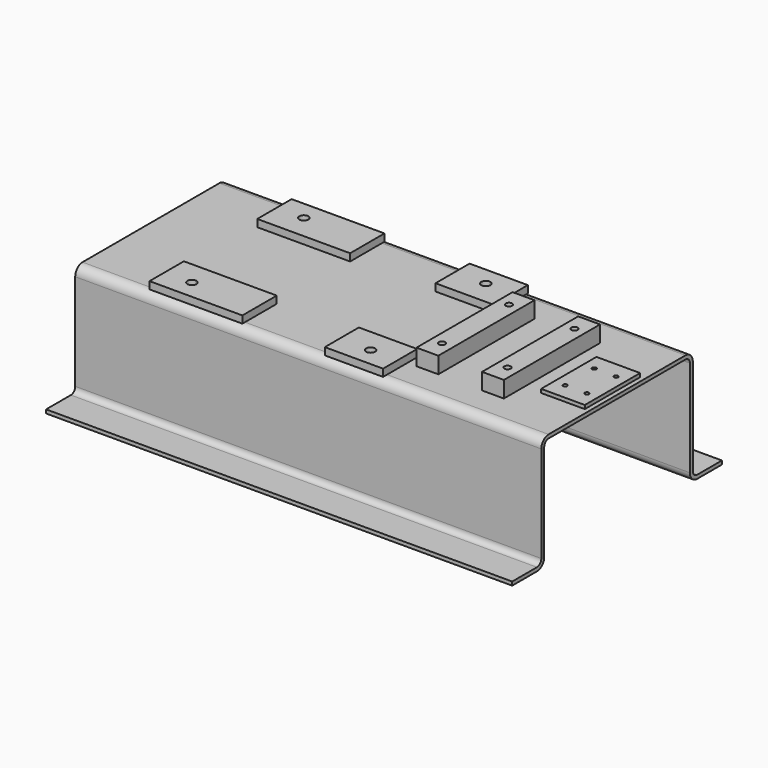
from build123d import *

# Parameters (mm, degrees)
F1_DEPTH = 812.8
F2_W     = 323.85
F2_H     = 149.815533
F2_R     = 15.875
F2_W_2   = 203.2
F2_H_2   = 148.416346
F3_DEPTH = 25.4
F4_W     = 76.2
F4_H     = 419.1
F4_R     = 11.176
F5_DEPTH = 57.15
F6_W     = 152.4
F6_H     = 241.3
F6_R     = 7.14375
F7_DEPTH = 12.7


with BuildPart() as f1:
    # F0 (on Right) → F1 (new body, symmetric)
    with BuildSketch(Plane.YZ):
        with BuildLine():
            ThreePointArc((317.5, 31.75), (326.79936, 9.29936), (349.25, 0))
            Line((349.25, 0), (457.2, 0))
            Line((457.2, 0), (457.2, 12.7))
            Line((457.2, 12.7), (349.25, 12.7))
            ThreePointArc((349.25, 12.7), (335.779616, 18.279616), (330.2, 31.75))
            Line((330.2, 31.75), (330.2, 368.3))
            ThreePointArc((330.2, 368.3), (320.90064, 390.75064), (298.45, 400.05))
            Line((298.45, 400.05), (0, 400.05))
            Line((0, 400.05), (-298.45, 400.05))
            ThreePointArc((-298.45, 400.05), (-320.90064, 390.75064), (-330.2, 368.3))
            Line((-330.2, 368.3), (-330.2, 31.75))
            ThreePointArc((-330.2, 31.75), (-335.779616, 18.279616), (-349.25, 12.7))
            Line((-349.25, 12.7), (-457.2, 12.7))
            Line((-457.2, 12.7), (-457.2, 0))
            Line((-457.2, 0), (-349.25, 0))
            ThreePointArc((-349.25, 0), (-326.79936, 9.29936), (-317.5, 31.75))
            Line((-317.5, 31.75), (-317.5, 368.3))
            ThreePointArc((-317.5, 368.3), (-311.920384, 381.770384), (-298.45, 387.35))
            Line((-298.45, 387.35), (0, 387.35))
            Line((0, 387.35), (298.45, 387.35))
            ThreePointArc((298.45, 387.35), (311.920384, 381.770384), (317.5, 368.3))
            Line((317.5, 368.3), (317.5, 31.75))
        make_face()
    extrude(amount=F1_DEPTH, both=True)

    # F2 (on face) → F3 (join)
    with BuildSketch(Plane.XY.offset(400.05)):
        with Locations((-408.051, -234.850373)):
            Rectangle(F2_W, F2_H)
        with Locations((-474.726, -243.856796)):
            Circle(F2_R, mode=Mode.SUBTRACT)
        with Locations((147.574, -241.293997)):
            Rectangle(F2_W_2, F2_H_2)
        with Locations((154.178, -251.150241)):
            Circle(F2_R, mode=Mode.SUBTRACT)
        with Locations((-408.051, 234.850373)):
            Rectangle(F2_W, F2_H)
        with Locations((-474.726, 243.856796)):
            Circle(F2_R, mode=Mode.SUBTRACT)
        with Locations((147.574, 241.293997)):
            Rectangle(F2_W_2, F2_H_2)
        with Locations((154.178, 251.150241)):
            Circle(F2_R, mode=Mode.SUBTRACT)
    extrude(amount=F3_DEPTH)

    # F4 (on face) → F5 (join)
    with BuildSketch(Plane.XY.offset(400.05)):
        with Locations((547.624, 0)):
            Rectangle(F4_W, F4_H)
        with Locations((547.624, -146.05)):
            Circle(F4_R, mode=Mode.SUBTRACT)
        with Locations((547.624, 146.05)):
            Circle(F4_R, mode=Mode.SUBTRACT)
        with Locations((319.024, 0)):
            Rectangle(F4_W, F4_H)
        with Locations((319.024, -146.05)):
            Circle(F4_R, mode=Mode.SUBTRACT)
        with Locations((319.024, 146.05)):
            Circle(F4_R, mode=Mode.SUBTRACT)
    extrude(amount=F5_DEPTH)

    # F6 (on face) → F7 (join)
    with BuildSketch(Plane.XY.offset(400.05)):
        with Locations((720.598, 0)):
            Rectangle(F6_W, F6_H)
        with Locations((682.498, -63.5)):
            Circle(F6_R, mode=Mode.SUBTRACT)
        with Locations((758.698, -63.5)):
            Circle(F6_R, mode=Mode.SUBTRACT)
        with Locations((682.498, 63.5)):
            Circle(F6_R, mode=Mode.SUBTRACT)
        with Locations((758.698, 63.5)):
            Circle(F6_R, mode=Mode.SUBTRACT)
    extrude(amount=F7_DEPTH)


solid = f1.part
